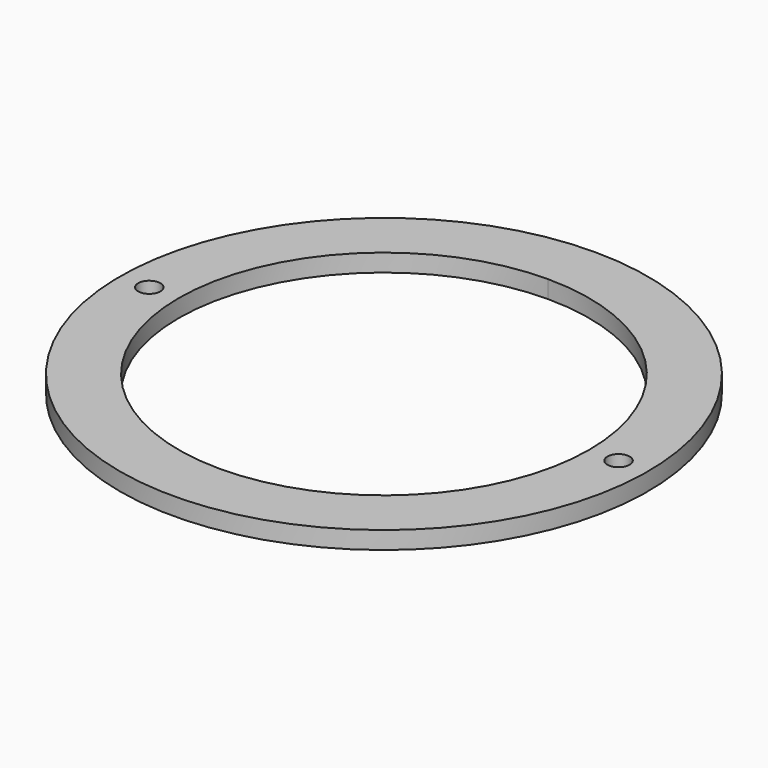
from build123d import *

# Parameters (mm, degrees)
F0_R     = 45
F0_R_2   = 35
F1_DEPTH = 3
F2_R     = 1.9
F3_DEPTH = 25
F4_W     = 55.17469
F4_H     = 97.550949
F5_DEPTH = 25


with BuildPart() as f1:
    # F0 (on Top) → F1 (new body)
    with BuildSketch(Plane.XY):
        Circle(F0_R)
        Circle(F0_R_2, mode=Mode.SUBTRACT)
    extrude(amount=F1_DEPTH)

    # F2 (on face) → F3 (cut)
    with BuildSketch(Plane.XY.offset(3)):
        with Locations((-40, 0)):
            Circle(F2_R)
        with Locations((40, 0)):
            Circle(F2_R)
    extrude(amount=-F3_DEPTH, mode=Mode.SUBTRACT)

    # F4 (on face) → F5 (cut)
    with BuildSketch(Plane.XY.offset(3)):
        with Locations((27.587345, 3.775474)):
            Rectangle(F4_W, F4_H)
    extrude(amount=-F5_DEPTH, mode=Mode.SUBTRACT)

    # F6: F1 across face


with BuildPart() as f1_1:
    add(f1.part)
    add(f1.part.mirror(Plane(origin=(0, 40, 1.5), x_dir=(0, 1, 0), z_dir=(1, 0, 0))))


solid = f1_1.part
